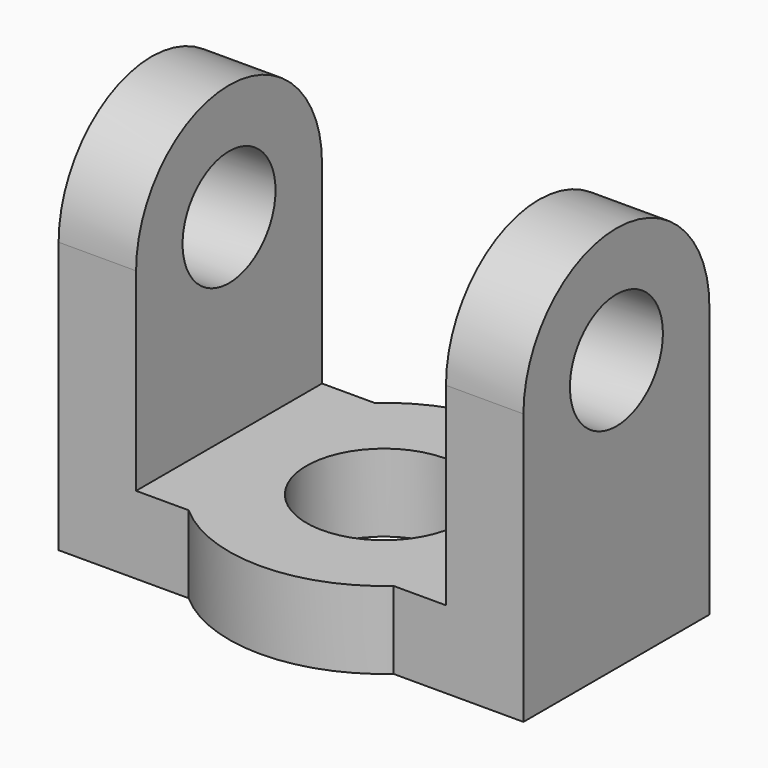
from build123d import *

# Parameters (mm, degrees)
F1_DEPTH = 10
F3_DEPTH = 10
F5_DEPTH = 10
F6_R     = 7.5
F7_DEPTH = 60.001


with BuildPart() as f1:
    # F0 (on Top) → F1 (new body)
    with BuildSketch(Plane.XY):
        with BuildLine():
            Line((10, 0), (20, 0))
            ThreePointArc((20, 0), (18.228757, 8.228757), (13.228757, 15))
            Line((13.228757, 15), (-13.228757, 15))
            ThreePointArc((-13.228757, 15), (-18.228757, 8.228757), (-20, 0))
            Line((-20, 0), (-10, 0))
            ThreePointArc((-10, 0), (0, 10), (10, 0))
        make_face()
        with BuildLine():
            Line((-13.228757, 15), (13.228757, 15))
            ThreePointArc((13.228757, 15), (0, 20), (-13.228757, 15))
        make_face()
        with BuildLine():
            ThreePointArc((-20, 0), (-18.228757, 8.228757), (-13.228757, 15))
            Line((-13.228757, 15), (-30, 15))
            Line((-30, 15), (-30, 0))
            Line((-30, 0), (-20, 0))
        make_face()
        with BuildLine():
            Line((-30, -15), (-13.228757, -15))
            ThreePointArc((-13.228757, -15), (-18.228757, -8.228757), (-20, 0))
            Line((-20, 0), (-30, 0))
            Line((-30, 0), (-30, -15))
        make_face()
        with BuildLine():
            ThreePointArc((-13.228757, -15), (0, -20), (13.228757, -15))
            Line((13.228757, -15), (-13.228757, -15))
        make_face()
        with BuildLine():
            Line((30, 0), (20, 0))
            ThreePointArc((20, 0), (18.228757, -8.228757), (13.228757, -15))
            Line((13.228757, -15), (30, -15))
            Line((30, -15), (30, 0))
        make_face()
        with BuildLine():
            ThreePointArc((13.228757, 15), (18.228757, 8.228757), (20, 0))
            Line((20, 0), (30, 0))
            Line((30, 0), (30, 15))
            Line((30, 15), (13.228757, 15))
        make_face()
        with BuildLine():
            ThreePointArc((13.228757, -15), (18.228757, -8.228757), (20, 0))
            Line((20, 0), (10, 0))
            ThreePointArc((10, 0), (0, -10), (-10, 0))
            Line((-10, 0), (-20, 0))
            ThreePointArc((-20, 0), (-18.228757, -8.228757), (-13.228757, -15))
            Line((-13.228757, -15), (13.228757, -15))
        make_face()
    extrude(amount=F1_DEPTH)

    # F2 (on face) → F3 (join)
    with BuildSketch(Plane.YZ.offset(30)):
        with BuildLine():
            Line((-15, 35), (-15, 10))
            Line((-15, 10), (15, 10))
            Line((15, 10), (15, 35))
            ThreePointArc((15, 35), (0, 50), (-15, 35))
        make_face()
    extrude(amount=-F3_DEPTH)

    # F4 (on face) → F5 (join)
    with BuildSketch(Plane(origin=(-30, 0, 0), x_dir=(0, -1, 0), z_dir=(-1, 0, 0))):
        with BuildLine():
            Line((-15, 35), (-15, 10))
            Line((-15, 10), (15, 10))
            Line((15, 10), (15, 35))
            ThreePointArc((15, 35), (0, 50), (-15, 35))
        make_face()
    extrude(amount=-F5_DEPTH)

    # F6 (on face) → F7 (cut, through all)
    with BuildSketch(Plane.YZ.offset(30)):
        with Locations((0, 35)):
            Circle(F6_R)
    extrude(amount=-F7_DEPTH, mode=Mode.SUBTRACT)


solid = f1.part
